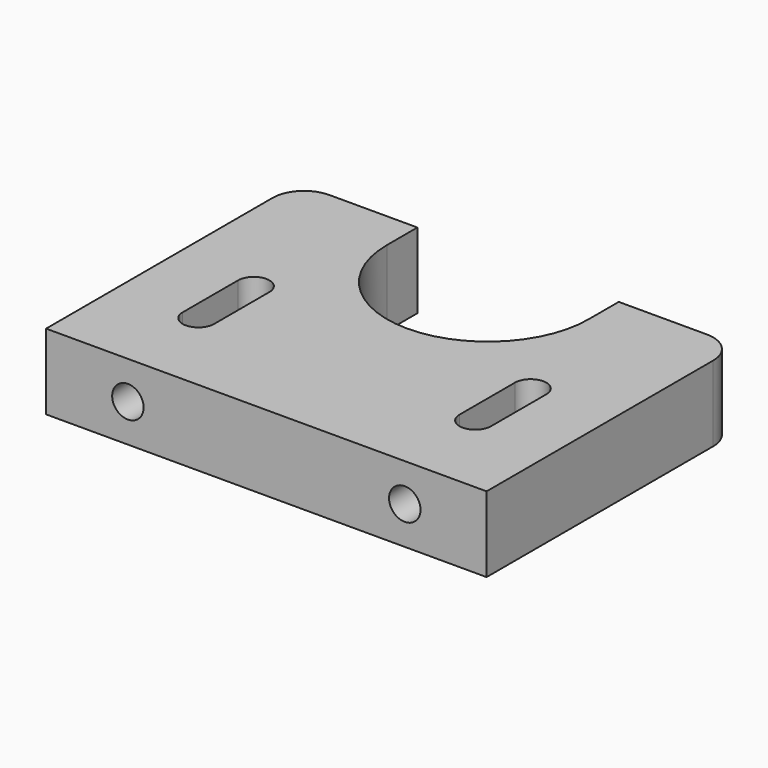
from build123d import *

# Parameters (mm, degrees)
F1_DEPTH = 12
F2_R     = 2.5
F3_DEPTH = 15
F4_R     = 5


with BuildPart() as f1:
    # F0 (on Top) → F1 (new body)
    with BuildSketch(Plane.XY):
        with BuildLine():
            Line((0, 0), (35, 0))
            Line((35, 0), (70, 0))
            Line((70, 0), (70, 50))
            Line((70, 50), (51, 50))
            Line((51, 50), (51, 44))
            ThreePointArc((51, 44), (35, 28), (19, 44))
            Line((19, 44), (19, 50))
            Line((19, 50), (0, 50))
            Line((0, 50), (0, 0))
        make_face()
        with BuildLine():
            Line((15.5, 25), (15.5, 14))
            ThreePointArc((15.5, 14), (13, 11.5), (10.5, 14))
            Line((10.5, 14), (10.5, 25))
            ThreePointArc((10.5, 25), (13, 27.5), (15.5, 25))
        make_face(mode=Mode.SUBTRACT)
        with BuildLine():
            Line((59.5, 25), (59.5, 14))
            ThreePointArc((59.5, 14), (57, 11.5), (54.5, 14))
            Line((54.5, 14), (54.5, 25))
            ThreePointArc((54.5, 25), (57, 27.5), (59.5, 25))
        make_face(mode=Mode.SUBTRACT)
    extrude(amount=F1_DEPTH)

    # F2 (on face) → F3 (cut)
    with BuildSketch(Plane.XZ):
        with Locations((13, 6)):
            Circle(F2_R)
        with Locations((57, 6)):
            Circle(F2_R)
    extrude(amount=-F3_DEPTH, mode=Mode.SUBTRACT)

    # F4
    f4_edges = [f1.edges().sort_by_distance(p)[0] for p in [
        (70, 50, 6),
        (0, 50, 6),
    ]]
    fillet(f4_edges, radius=F4_R)


solid = f1.part
